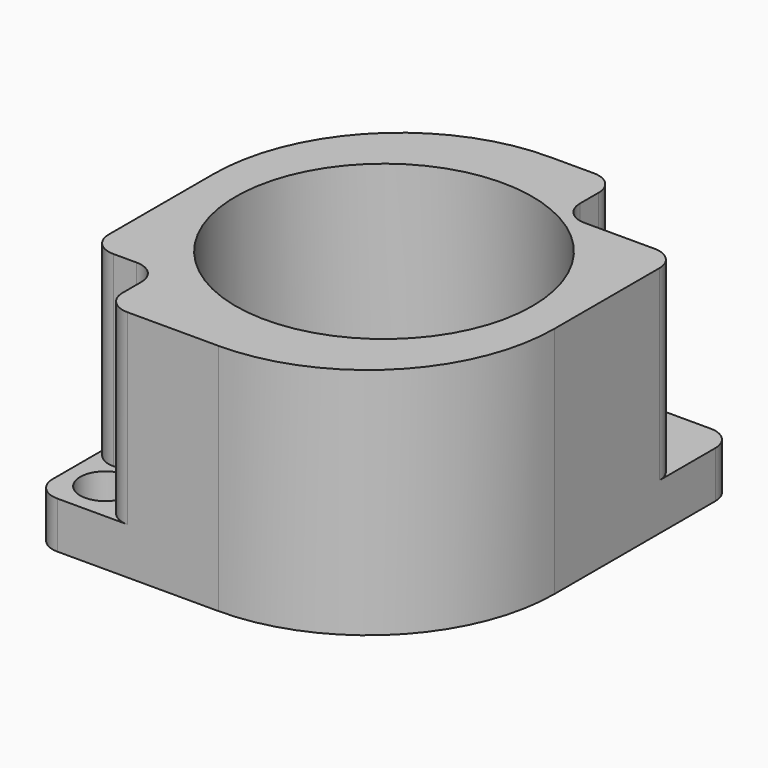
from build123d import *

# Parameters (mm, degrees)
F0_W      = 20.193
F0_H      = 22.352
F1_DEPTH  = 12.7
F2_R      = 8.0645
F3_DEPTH  = 12.7
F5_W      = 3.81
F5_H      = 3.81
F6_DEPTH  = 10.16
F4_W      = 6.35
F4_H      = 3.81
F7_DEPTH  = 10.16
F8_R      = 10.16
F9_R      = 1.27
F11_R     = 1.3716
F12_DEPTH = 2.54
F10_R     = 1.3716
F13_DEPTH = 2.54


with BuildPart() as f1:
    # F0 (on Top) → F1 (new body)
    with BuildSketch(Plane.XY):
        Rectangle(F0_W, F0_H)
    extrude(amount=F1_DEPTH)

    # F2 (on face) → F3 (cut)
    with BuildSketch(Plane.XY.offset(12.7)):
        Circle(F2_R)
    extrude(amount=-F3_DEPTH, mode=Mode.SUBTRACT)

    # F5 (on face) → F6 (cut)
    with BuildSketch(Plane.XY.offset(12.7)):
        with Locations((-8.1915, -9.271)):
            Rectangle(F5_W, F5_H)
    extrude(amount=-F6_DEPTH, mode=Mode.SUBTRACT)

    # F4 (on face) → F7 (cut)
    with BuildSketch(Plane.XY.offset(12.7)):
        with Locations((6.9215, 9.271)):
            Rectangle(F4_W, F4_H)
    extrude(amount=-F7_DEPTH, mode=Mode.SUBTRACT)

    # F8
    f8_edges = [f1.edges().sort_by_distance(p)[0] for p in [
        (-10.0965, 11.176, 6.35),
        (10.0965, -11.176, 6.35),
    ]]
    fillet(f8_edges, radius=F8_R)

    # F9
    f9_edges = [f1.edges().sort_by_distance(p)[0] for p in [
        (-10.0965, -7.366, 7.62),
        (-6.2865, -11.176, 7.62),
        (3.7465, 11.176, 7.62),
        (10.0965, 7.366, 7.62),
        (3.7465, 7.366, 7.62),
        (-6.2865, -7.366, 7.62),
        (-10.0965, -11.176, 1.27),
        (10.0965, 11.176, 1.27),
    ]]
    fillet(f9_edges, radius=F9_R)

    # F11 (on face) → F12 (cut)
    with BuildSketch(Plane.XY.offset(2.54)):
        with Locations((-7.9375, -9.017)):
            Circle(F11_R)
    extrude(amount=-F12_DEPTH, mode=Mode.SUBTRACT)

    # F10 (on face) → F13 (cut)
    with BuildSketch(Plane.XY.offset(2.54)):
        with Locations((5.6515, 9.017)):
            Circle(F10_R)
    extrude(amount=-F13_DEPTH, mode=Mode.SUBTRACT)


solid = f1.part
